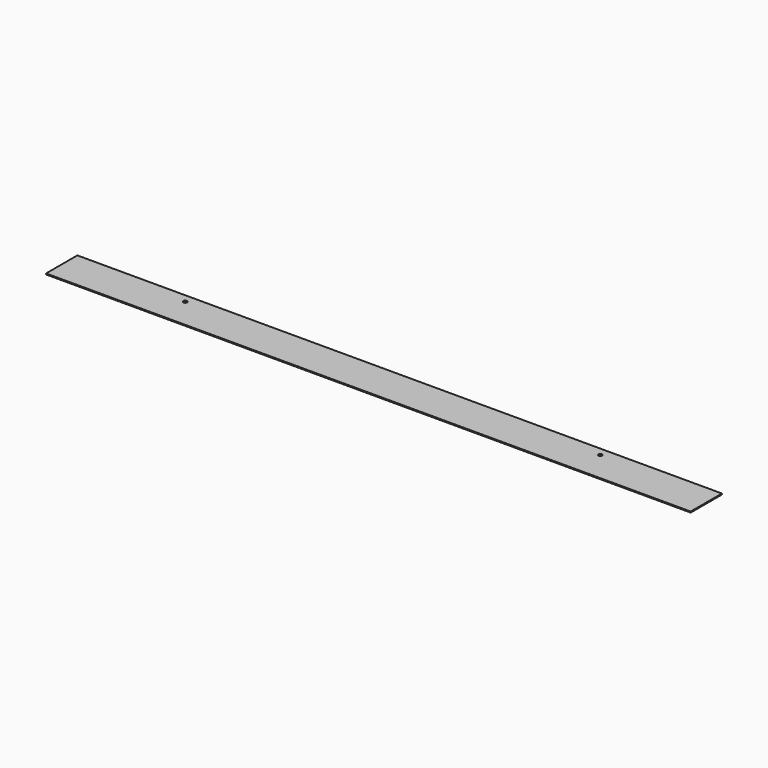
from build123d import *

# Parameters (mm, degrees)
F0_W     = 1320
F0_H     = 80
F0_R     = 3.25
F1_DEPTH = 2
F2_SIZE  = 0.5


with BuildPart() as f1:
    # F0 (on Top) → F1 (new body)
    with BuildSketch(Plane.XY):
        Rectangle(F0_W, F0_H)
        with Locations((-425, 22.5)):
            Circle(F0_R, mode=Mode.SUBTRACT)
        with Locations((425, 22.5)):
            Circle(F0_R, mode=Mode.SUBTRACT)
    extrude(amount=F1_DEPTH)

    # F2
    f2_edges = [f1.edges().sort_by_distance(p)[0] for p in [
        (-421.75, 22.5, 1),
        (-428.25, 22.5, 0),
        (-428.25, 22.5, 2),
        (428.25, 22.5, 1),
        (421.75, 22.5, 0),
        (421.75, 22.5, 2),
    ]]
    chamfer(f2_edges, length=F2_SIZE)


solid = f1.part
